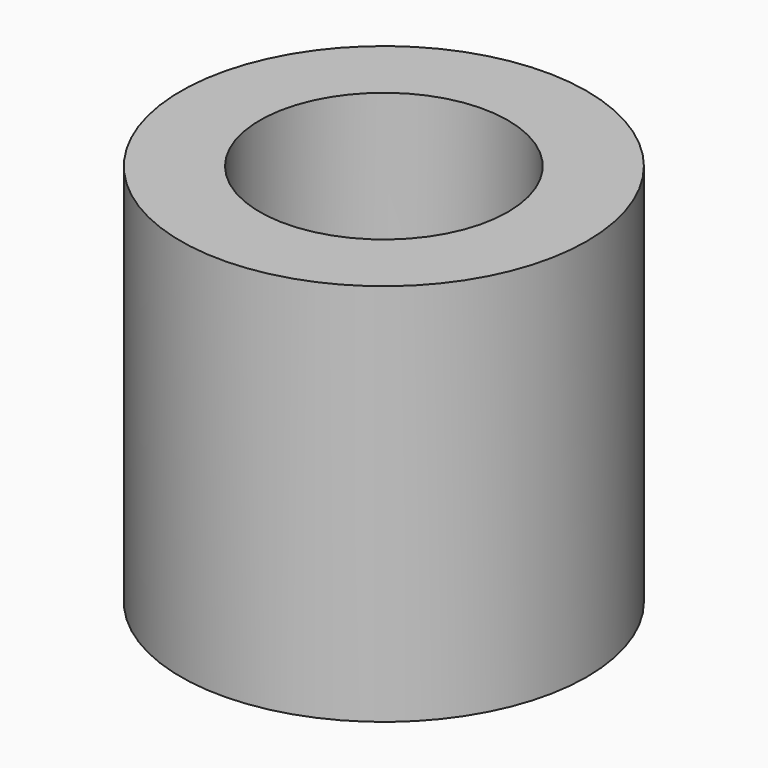
from build123d import *

# Parameters (mm, degrees)
CYLINDER093_R     = 1.5
CYLINDER093_DEPTH = 14
CYLINDER090_R     = 11.7
CYLINDER090_DEPTH = 33
CYLINDER094_R     = 1.5
CYLINDER094_DEPTH = 14
CYLINDER088_R     = 14
CYLINDER088_DEPTH = 33
BOX016_W          = 1
BOX016_H          = 1
BOX016_DEPTH      = 1
CYLINDER084_R     = 17
CYLINDER084_DEPTH = 5
CYLINDER095_R     = 11
CYLINDER095_DEPTH = 34
CYLINDER_R        = 18
CYLINDER_DEPTH    = 34


with BuildPart() as obj1:
    # Cylinder093 → Cylinder093 (new body)
    with BuildSketch(Plane(origin=(53.66, 148, -15), x_dir=(1, 0, 0), z_dir=(0, 0, 1))):
        Circle(CYLINDER093_R)
    extrude(amount=CYLINDER093_DEPTH)


with BuildPart() as obj2:
    # Cylinder090 → Cylinder090 (new body)
    with BuildSketch(Plane(origin=(73.66, 148, -10), x_dir=(1, 0, 0), z_dir=(0, 0, 1))):
        Circle(CYLINDER090_R)
    extrude(amount=CYLINDER090_DEPTH)


with BuildPart() as fusion039:
    # Cylinder094 → Cylinder094 (new body)
    with BuildSketch(Plane(origin=(93.66, 148, -14), x_dir=(1, 0, 0), z_dir=(0, 0, 1))):
        Circle(CYLINDER094_R)
    extrude(amount=CYLINDER094_DEPTH)

    # Fusion039: union obj1, obj2
    add(obj1.part)
    add(obj2.part)


with BuildPart() as obj3:
    # Cylinder088 → Cylinder088 (new body)
    with BuildSketch(Plane(origin=(73.66, 148, -10), x_dir=(1, 0, 0), z_dir=(0, 0, 1))):
        Circle(CYLINDER088_R)
    extrude(amount=CYLINDER088_DEPTH)


with BuildPart() as obj4:
    # Box016 → Box016 (new body)
    with BuildSketch(Plane(origin=(63, 136, -8), x_dir=(1, 0, 0), z_dir=(0, 0, 1))):
        with Locations((0.5, 0.5)):
            Rectangle(BOX016_W, BOX016_H)
    extrude(amount=BOX016_DEPTH)


with BuildPart() as obj5:
    # Cylinder084 → Cylinder084 (new body)
    with BuildSketch(Plane(origin=(73.66, 148, -10), x_dir=(1, 0, 0), z_dir=(0, 0, 1))):
        Circle(CYLINDER084_R)
    extrude(amount=CYLINDER084_DEPTH)

    # Fusion038: union obj3, obj4
    add(obj3.part)
    add(obj4.part)

    # Cut010: cut Fusion039
    add(fusion039.part, mode=Mode.SUBTRACT)


with BuildPart() as obj5_1:
    # Cut010 placement: moved
    add(obj5.part.moved(Location((-73.66, -148, -23))))


with BuildPart() as fusion:
    # Cylinder095 → Cylinder095 (new body)
    with BuildSketch(Plane.XY.offset(-33)):
        Circle(CYLINDER095_R)
    extrude(amount=CYLINDER095_DEPTH)

    # Fusion: union obj5
    add(obj5_1.part)


with BuildPart() as cut:
    # Cylinder → Cylinder (new body)
    with BuildSketch(Plane.XY.offset(-33)):
        Circle(CYLINDER_R)
    extrude(amount=CYLINDER_DEPTH)

    # Cut: cut Fusion
    add(fusion.part, mode=Mode.SUBTRACT)


solid = cut.part
